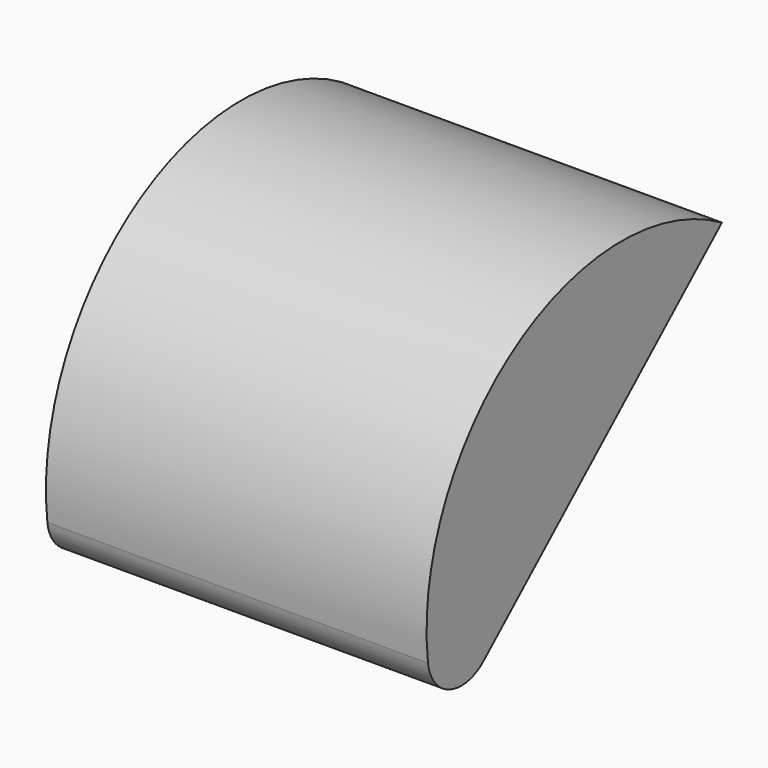
from build123d import *

# Parameters (mm, degrees)
F1_DEPTH = 57.5618


with BuildPart() as f1:
    # F0 (on Right) → F1 (new body)
    with BuildSketch(Plane.YZ):
        with BuildLine():
            Line((-45.039557, 11.514273), (0, 51.549435))
            ThreePointArc((0, 51.549435), (-39.028103, 50.856904), (-55.562271, 15.497411))
            ThreePointArc((-55.562271, 15.497411), (-51.506257, 10.321548), (-45.039557, 11.514273))
        make_face()
    extrude(amount=F1_DEPTH)


solid = f1.part
